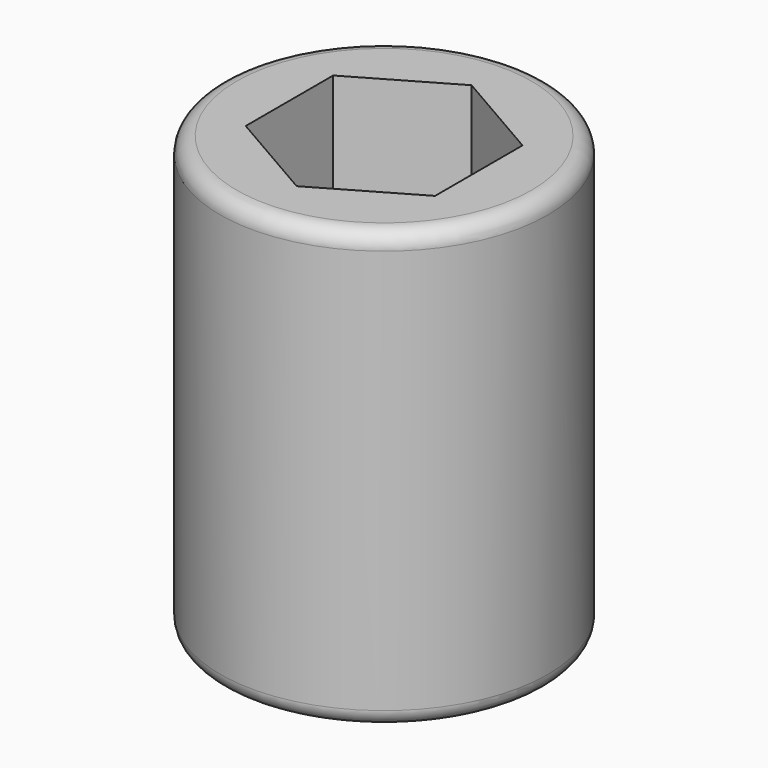
from build123d import *

# Parameters (mm, degrees)
F0_R     = 38.1
F1_DEPTH = 101.6
F4_R     = 3.81


with BuildPart() as f1:
    # F0 (on Top) → F1 (new body)
    with BuildSketch(Plane.XY):
        Circle(F0_R)
        Polygon((-21.997045, 12.7), (0, 25.4), (21.997045, 12.7), (21.997045, -12.7), (0, -25.4), (-21.997045, -12.7), align=None, mode=Mode.SUBTRACT)
    extrude(amount=F1_DEPTH)

    # F2 (on face) → F3 (revolve)
    with BuildSketch(Plane(origin=(21.997045, 0, 0), x_dir=(0, -1, 0), z_dir=(-1, 0, 0))):
        with BuildLine():
            Line((0, 85.725), (0, 79.375))
            ThreePointArc((0, 79.375), (3.175, 82.55), (0, 85.725))
        make_face()
    revolve(axis=Axis((21.997045, 0, 82.55), (0, 0, 1)))

    # F4
    f4_edges = [f1.edges().sort_by_distance(p)[0] for p in [
        (-38.1, 0, 0),
        (-38.1, 0, 101.6),
    ]]
    fillet(f4_edges, radius=F4_R)


solid = f1.part
